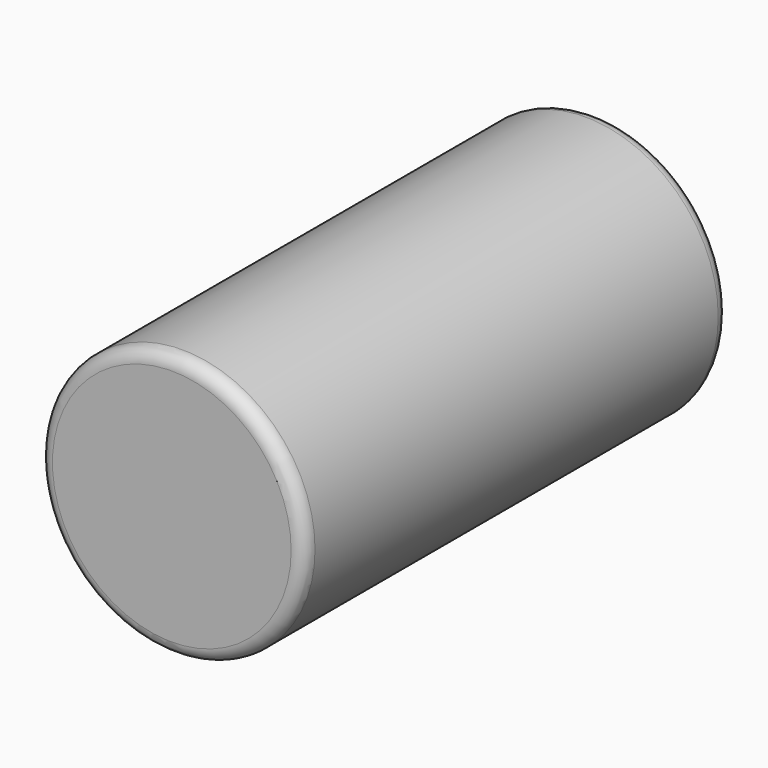
from build123d import *

# Parameters (mm, degrees)
F0_R     = 50
F1_DEPTH = 200
F2_R     = 5


with BuildPart() as f1:
    # F0 (on Front) → F1 (new body)
    with BuildSketch(Plane.XZ):
        Circle(F0_R)
    extrude(amount=-F1_DEPTH)

    # F2
    f2_edges = [f1.edges().sort_by_distance(p)[0] for p in [
        (-50, 200, 0),
        (-50, 0, 0),
    ]]
    fillet(f2_edges, radius=F2_R)


solid = f1.part
